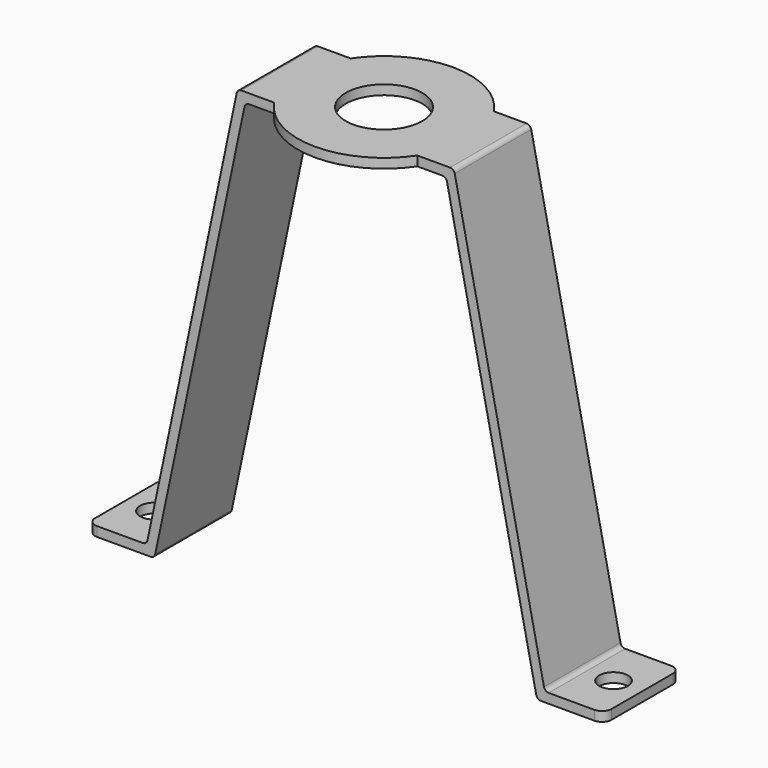
from build123d import *

# Parameters (mm, degrees)
F2_W      = 10
F2_H      = 1
F4_R      = 0.5
F5_R      = 9
F6_DEPTH  = 1
F7_R      = 4
F8_DEPTH  = 1
F9_R      = 1.5
F10_DEPTH = 1
F11_R     = 1


with BuildPart() as f3:
    # F3: sweep along a path in F0
    with BuildLine(Plane.XZ) as f3_path:
        Line((27, 0), (20, 0))
        Line((20, 0), (10.5, 45))
        Line((10.5, 45), (-10.5, 45))
        Line((-10.5, 45), (-20, 0))
        Line((-20, 0), (-27, 0))
    # F2 (on plane+point) → F3 (sweep)
    with BuildSketch(Plane.YZ.offset(27)):
        with Locations((0, 0.5)):
            Rectangle(F2_W, F2_H)
    sweep(path=f3_path.line, transition=Transition.RIGHT)

    # F4
    f4_edges = [f3.edges().sort_by_distance(p)[0] for p in [
        (20.81093, 0, 1),
        (11.31093, 0, 46),
        (-11.31093, 0, 46),
        (-20.81093, 0, 1),
        (20, 0, 0),
        (10.5, 0, 45),
        (-20, 0, 0),
        (-10.5, 0, 45),
    ]]
    fillet(f4_edges, radius=F4_R)

    # F5 (on face) → F6 (join, through all)
    with BuildSketch(Plane.XY.offset(46)):
        Circle(F5_R)
    extrude(amount=-F6_DEPTH)

    # F7 (on face) → F8 (cut, through all)
    with BuildSketch(Plane.XY.offset(46)):
        Circle(F7_R)
    extrude(amount=-F8_DEPTH, mode=Mode.SUBTRACT)

    # F9 (on Top) → F10 (cut, through all)
    with BuildSketch(Plane.XY):
        with Locations((-24, 0)):
            Circle(F9_R)
        with Locations((24, 0)):
            Circle(F9_R)
    extrude(amount=F10_DEPTH, mode=Mode.SUBTRACT)

    # F11
    f11_edges = [f3.edges().sort_by_distance(p)[0] for p in [
        (27, -5, 0.5),
        (27, 5, 0.5),
        (-27, 5, 0.5),
        (-27, -5, 0.5),
    ]]
    fillet(f11_edges, radius=F11_R)


solid = f3.part
